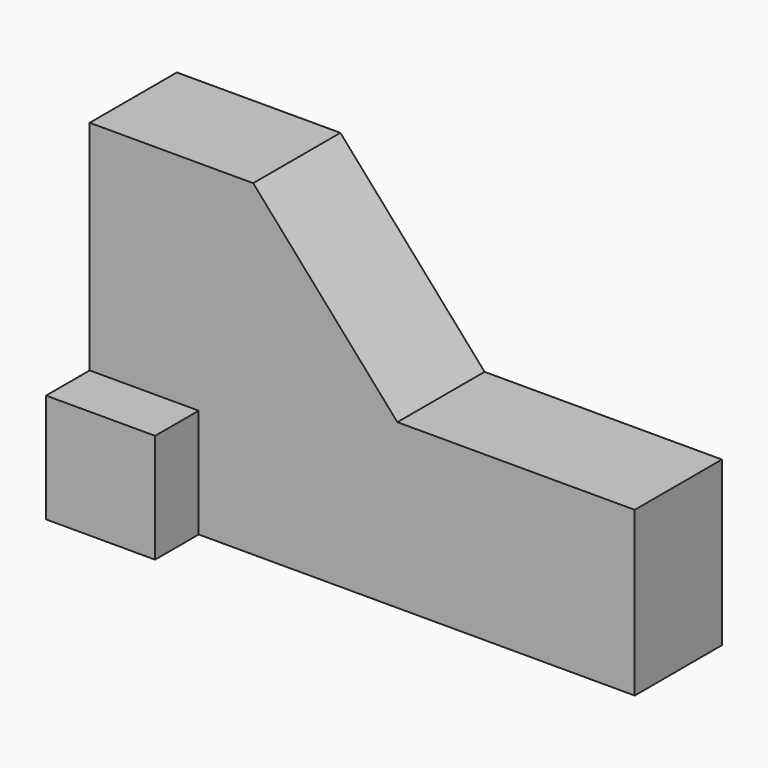
from build123d import *

# Parameters (mm, degrees)
F1_DEPTH = 25.4
F2_W     = 25.4
F2_H     = 25.4
F3_DEPTH = 12.7


with BuildPart() as f1:
    # F0 (on Front) → F1 (new body)
    with BuildSketch(Plane.XZ):
        Polygon((0, 76.2), (0, 38.1), (71.701042, 38.1), (38.1, 76.2), align=None)
        Polygon((0, 25.4), (0, 0), (127, 0), (127, 38.1), (71.701042, 38.1), (0, 38.1), align=None)
    extrude(amount=F1_DEPTH)

    # F2 (on face) → F3 (join)
    with BuildSketch(Plane.XZ.offset(25.4)):
        with Locations((12.7, 12.7)):
            Rectangle(F2_W, F2_H)
    extrude(amount=F3_DEPTH)


solid = f1.part
